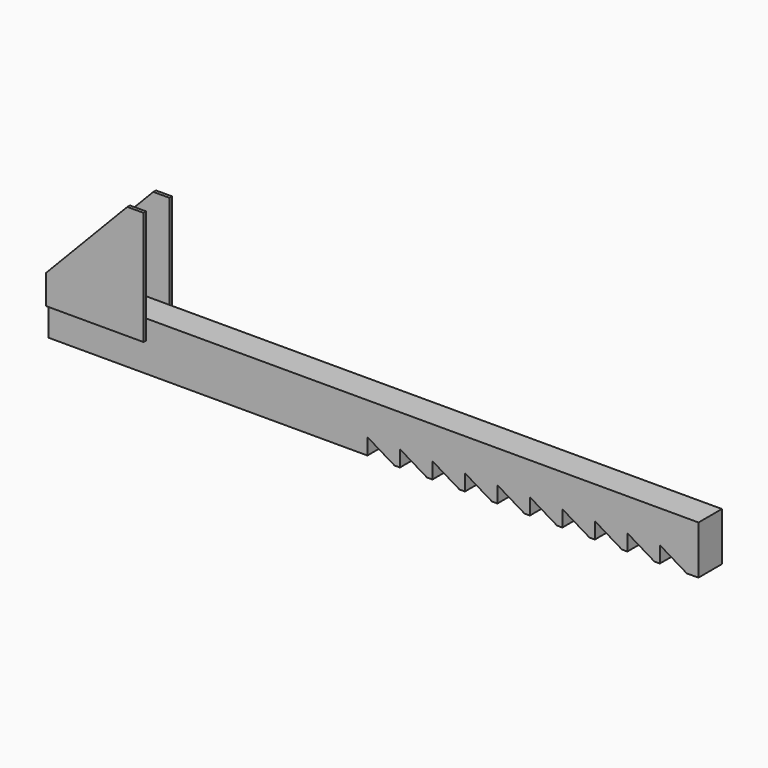
from build123d import *

# Parameters (mm, degrees)
F1_DEPTH = 4.5
F4_DEPTH = 1


with BuildPart() as f1:
    # F0 (on Front) → F1 (new body, symmetric)
    with BuildSketch(Plane.XZ):
        Polygon((-10, 3.8), (-7.132532, 2.079519), (-3.666667, 0), (-3.48962, 0), (-2, 0), (-2, 5), (0, 3.8), (2.867468, 2.079519), (6.333333, 0), (6.51038, 0), (8, 0), (8, 5), (10, 3.8), (12.867468, 2.079519), (16.333333, 0), (16.51038, 0), (18, 0), (18, 5), (20, 3.8), (22.867468, 2.079519), (26.333333, 0), (26.51038, 0), (28, 0), (28, 5), (30, 3.8), (32.867468, 2.079519), (36.333333, 0), (36.51038, 0), (38, 0), (38, 5), (40, 3.8), (42.867468, 2.079519), (46.333333, 0), (46.51038, 0), (48, 0), (48, 5), (50, 3.8), (52.867468, 2.079519), (56.333333, 0), (56.51038, 0), (58, 0), (58, 5), (60, 3.8), (62.867468, 2.079519), (66.333333, 0), (66.51038, 0), (68, 0), (68, 5), (70, 3.8), (72.867468, 2.079519), (76.333333, 0), (76.51038, 0), (78, 0), (78, 5), (80, 3.8), (82.867468, 2.079519), (86.333333, 0), (86.51038, 0), (89.901179, 0.061058), (89.901179, 15), (-110.098821, 15), (-110.098821, 0), (-12, 0), (-12, 5), align=None)
    extrude(amount=F1_DEPTH, both=True)

    # F3 (on offset) → F4 (join)
    with BuildSketch(Plane.XZ.offset(4.5)):
        Polygon((-80.098821, 44), (-85.098821, 44), (-110.098821, 18), (-110.098821, 9), (-80.098821, 9), align=None)
    extrude(amount=F4_DEPTH)

    # F5: F1 across plane


with BuildPart() as f1_1:
    add(f1.part)
    add(f1.part.mirror(Plane.XZ))


solid = f1_1.part
